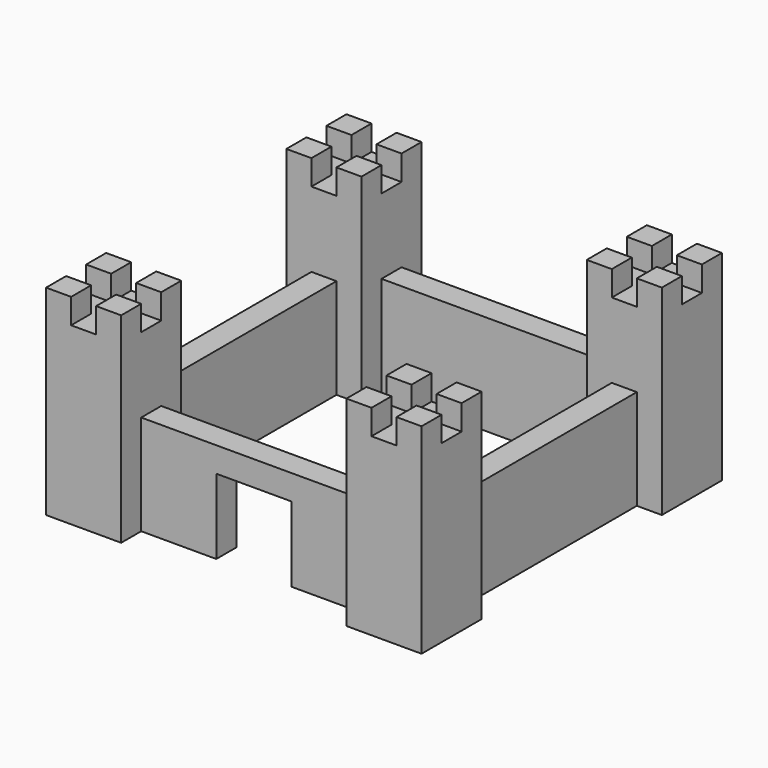
from build123d import *

# Parameters (mm, degrees)
BOX015_W     = 1
BOX015_H     = 1
BOX015_DEPTH = 1
BOX016_W     = 1
BOX016_H     = 1
BOX016_DEPTH = 1
BOX018_W     = 1
BOX018_H     = 1
BOX018_DEPTH = 1
BOX017_W     = 1
BOX017_H     = 1
BOX017_DEPTH = 1
BOX014_W     = 3
BOX014_H     = 3
BOX014_DEPTH = 7
BOX024_W     = 9
BOX024_H     = 1
BOX024_DEPTH = 4
BOX020_W     = 1
BOX020_H     = 1
BOX020_DEPTH = 1
BOX021_W     = 1
BOX021_H     = 1
BOX021_DEPTH = 1
BOX023_W     = 1
BOX023_H     = 1
BOX023_DEPTH = 1
BOX022_W     = 1
BOX022_H     = 1
BOX022_DEPTH = 1
BOX019_W     = 3
BOX019_H     = 3
BOX019_DEPTH = 7
BOX003_W     = 9
BOX003_H     = 1
BOX003_DEPTH = 4
BOX004_W     = 9
BOX004_H     = 1
BOX004_DEPTH = 4
BOX010_W     = 1
BOX010_H     = 1
BOX010_DEPTH = 1
BOX011_W     = 1
BOX011_H     = 1
BOX011_DEPTH = 1
BOX013_W     = 1
BOX013_H     = 1
BOX013_DEPTH = 1
BOX012_W     = 1
BOX012_H     = 1
BOX012_DEPTH = 1
BOX009_W     = 3
BOX009_H     = 3
BOX009_DEPTH = 7
BOX005_W     = 1
BOX005_H     = 1
BOX005_DEPTH = 1
BOX006_W     = 1
BOX006_H     = 1
BOX006_DEPTH = 1
BOX008_W     = 1
BOX008_H     = 1
BOX008_DEPTH = 1
BOX007_W     = 1
BOX007_H     = 1
BOX007_DEPTH = 1
BOX001_W     = 3
BOX001_H     = 3
BOX001_DEPTH = 7
BOX025_W     = 3
BOX025_H     = 1
BOX025_DEPTH = 3
BOX_W        = 9
BOX_H        = 1
BOX_DEPTH    = 4


with BuildPart() as cubo015:
    # Box015 → Box015 (new body)
    with BuildSketch(Plane(origin=(-1, 1, 7), x_dir=(1, 0, 0), z_dir=(0, 0, 1))):
        with Locations((0.5, 0.5)):
            Rectangle(BOX015_W, BOX015_H)
    extrude(amount=BOX015_DEPTH)


with BuildPart() as cubo016:
    # Box016 → Box016 (new body)
    with BuildSketch(Plane(origin=(-1, -1, 7), x_dir=(1, 0, 0), z_dir=(0, 0, 1))):
        with Locations((0.5, 0.5)):
            Rectangle(BOX016_W, BOX016_H)
    extrude(amount=BOX016_DEPTH)


with BuildPart() as cubo018:
    # Box018 → Box018 (new body)
    with BuildSketch(Plane(origin=(-3, 1, 7), x_dir=(1, 0, 0), z_dir=(0, 0, 1))):
        with Locations((0.5, 0.5)):
            Rectangle(BOX018_W, BOX018_H)
    extrude(amount=BOX018_DEPTH)


with BuildPart() as cubo017:
    # Box017 → Box017 (new body)
    with BuildSketch(Plane(origin=(-3, -1, 7), x_dir=(1, 0, 0), z_dir=(0, 0, 1))):
        with Locations((0.5, 0.5)):
            Rectangle(BOX017_W, BOX017_H)
    extrude(amount=BOX017_DEPTH)


with BuildPart() as fusion011:
    # Box014 → Box014 (new body)
    with BuildSketch(Plane(origin=(-3, -1, 0), x_dir=(1, 0, 0), z_dir=(0, 0, 1))):
        with Locations((1.5, 1.5)):
            Rectangle(BOX014_W, BOX014_H)
    extrude(amount=BOX014_DEPTH)

    # Fusion008: union Cubo017
    add(cubo017.part)

    # Fusion009: union Cubo018
    add(cubo018.part)

    # Fusion010: union Cubo016
    add(cubo016.part)

    # Fusion011: union Cubo015
    add(cubo015.part)


with BuildPart() as fusion011_1:
    # Fusion011 placement: moved
    add(fusion011.part.moved(Location((12, 12, 0))))


with BuildPart() as cubo024:
    # Box024 → Box024 (new body)
    with BuildSketch(Plane(origin=(0, 12, 0), x_dir=(1, 0, 0), z_dir=(0, 0, 1))):
        with Locations((4.5, 0.5)):
            Rectangle(BOX024_W, BOX024_H)
    extrude(amount=BOX024_DEPTH)


with BuildPart() as cubo020:
    # Box020 → Box020 (new body)
    with BuildSketch(Plane(origin=(-1, 1, 7), x_dir=(1, 0, 0), z_dir=(0, 0, 1))):
        with Locations((0.5, 0.5)):
            Rectangle(BOX020_W, BOX020_H)
    extrude(amount=BOX020_DEPTH)


with BuildPart() as cubo021:
    # Box021 → Box021 (new body)
    with BuildSketch(Plane(origin=(-1, -1, 7), x_dir=(1, 0, 0), z_dir=(0, 0, 1))):
        with Locations((0.5, 0.5)):
            Rectangle(BOX021_W, BOX021_H)
    extrude(amount=BOX021_DEPTH)


with BuildPart() as cubo023:
    # Box023 → Box023 (new body)
    with BuildSketch(Plane(origin=(-3, 1, 7), x_dir=(1, 0, 0), z_dir=(0, 0, 1))):
        with Locations((0.5, 0.5)):
            Rectangle(BOX023_W, BOX023_H)
    extrude(amount=BOX023_DEPTH)


with BuildPart() as cubo022:
    # Box022 → Box022 (new body)
    with BuildSketch(Plane(origin=(-3, -1, 7), x_dir=(1, 0, 0), z_dir=(0, 0, 1))):
        with Locations((0.5, 0.5)):
            Rectangle(BOX022_W, BOX022_H)
    extrude(amount=BOX022_DEPTH)


with BuildPart() as fusion015:
    # Box019 → Box019 (new body)
    with BuildSketch(Plane(origin=(-3, -1, 0), x_dir=(1, 0, 0), z_dir=(0, 0, 1))):
        with Locations((1.5, 1.5)):
            Rectangle(BOX019_W, BOX019_H)
    extrude(amount=BOX019_DEPTH)

    # Fusion012: union Cubo022
    add(cubo022.part)

    # Fusion013: union Cubo023
    add(cubo023.part)

    # Fusion014: union Cubo021
    add(cubo021.part)

    # Fusion015: union Cubo020
    add(cubo020.part)


with BuildPart() as fusion015_1:
    # Fusion015 placement: moved
    add(fusion015.part.moved(Location((0, 12, 0))))


with BuildPart() as cubo003:
    # Box003 → Box003 (new body)
    with BuildSketch(Plane(origin=(-1, 2, 0), x_dir=(0, 1, 0), z_dir=(0, 0, 1))):
        with Locations((4.5, 0.5)):
            Rectangle(BOX003_W, BOX003_H)
    extrude(amount=BOX003_DEPTH)


with BuildPart() as cubo004:
    # Box004 → Box004 (new body)
    with BuildSketch(Plane(origin=(11, 2, 0), x_dir=(0, 1, 0), z_dir=(0, 0, 1))):
        with Locations((4.5, 0.5)):
            Rectangle(BOX004_W, BOX004_H)
    extrude(amount=BOX004_DEPTH)


with BuildPart() as cubo010:
    # Box010 → Box010 (new body)
    with BuildSketch(Plane(origin=(-1, 1, 7), x_dir=(1, 0, 0), z_dir=(0, 0, 1))):
        with Locations((0.5, 0.5)):
            Rectangle(BOX010_W, BOX010_H)
    extrude(amount=BOX010_DEPTH)


with BuildPart() as cubo011:
    # Box011 → Box011 (new body)
    with BuildSketch(Plane(origin=(-1, -1, 7), x_dir=(1, 0, 0), z_dir=(0, 0, 1))):
        with Locations((0.5, 0.5)):
            Rectangle(BOX011_W, BOX011_H)
    extrude(amount=BOX011_DEPTH)


with BuildPart() as cubo013:
    # Box013 → Box013 (new body)
    with BuildSketch(Plane(origin=(-3, 1, 7), x_dir=(1, 0, 0), z_dir=(0, 0, 1))):
        with Locations((0.5, 0.5)):
            Rectangle(BOX013_W, BOX013_H)
    extrude(amount=BOX013_DEPTH)


with BuildPart() as cubo012:
    # Box012 → Box012 (new body)
    with BuildSketch(Plane(origin=(-3, -1, 7), x_dir=(1, 0, 0), z_dir=(0, 0, 1))):
        with Locations((0.5, 0.5)):
            Rectangle(BOX012_W, BOX012_H)
    extrude(amount=BOX012_DEPTH)


with BuildPart() as fusion007:
    # Box009 → Box009 (new body)
    with BuildSketch(Plane(origin=(-3, -1, 0), x_dir=(1, 0, 0), z_dir=(0, 0, 1))):
        with Locations((1.5, 1.5)):
            Rectangle(BOX009_W, BOX009_H)
    extrude(amount=BOX009_DEPTH)

    # Fusion004: union Cubo012
    add(cubo012.part)

    # Fusion005: union Cubo013
    add(cubo013.part)

    # Fusion006: union Cubo011
    add(cubo011.part)

    # Fusion007: union Cubo010
    add(cubo010.part)


with BuildPart() as fusion007_1:
    # Fusion007 placement: moved
    add(fusion007.part.moved(Location((12, 0, 0))))


with BuildPart() as cubo005:
    # Box005 → Box005 (new body)
    with BuildSketch(Plane(origin=(-1, 1, 7), x_dir=(1, 0, 0), z_dir=(0, 0, 1))):
        with Locations((0.5, 0.5)):
            Rectangle(BOX005_W, BOX005_H)
    extrude(amount=BOX005_DEPTH)


with BuildPart() as cubo006:
    # Box006 → Box006 (new body)
    with BuildSketch(Plane(origin=(-1, -1, 7), x_dir=(1, 0, 0), z_dir=(0, 0, 1))):
        with Locations((0.5, 0.5)):
            Rectangle(BOX006_W, BOX006_H)
    extrude(amount=BOX006_DEPTH)


with BuildPart() as cubo008:
    # Box008 → Box008 (new body)
    with BuildSketch(Plane(origin=(-3, 1, 7), x_dir=(1, 0, 0), z_dir=(0, 0, 1))):
        with Locations((0.5, 0.5)):
            Rectangle(BOX008_W, BOX008_H)
    extrude(amount=BOX008_DEPTH)


with BuildPart() as cubo007:
    # Box007 → Box007 (new body)
    with BuildSketch(Plane(origin=(-3, -1, 7), x_dir=(1, 0, 0), z_dir=(0, 0, 1))):
        with Locations((0.5, 0.5)):
            Rectangle(BOX007_W, BOX007_H)
    extrude(amount=BOX007_DEPTH)


with BuildPart() as fusion003:
    # Box001 → Box001 (new body)
    with BuildSketch(Plane(origin=(-3, -1, 0), x_dir=(1, 0, 0), z_dir=(0, 0, 1))):
        with Locations((1.5, 1.5)):
            Rectangle(BOX001_W, BOX001_H)
    extrude(amount=BOX001_DEPTH)

    # Fusion: union Cubo007
    add(cubo007.part)

    # Fusion001: union Cubo008
    add(cubo008.part)

    # Fusion002: union Cubo006
    add(cubo006.part)

    # Fusion003: union Cubo005
    add(cubo005.part)


with BuildPart() as cubo025:
    # Box025 → Box025 (new body)
    with BuildSketch(Plane(origin=(3, 0, 0), x_dir=(1, 0, 0), z_dir=(0, 0, 1))):
        with Locations((1.5, 0.5)):
            Rectangle(BOX025_W, BOX025_H)
    extrude(amount=BOX025_DEPTH)


with BuildPart() as fusion022:
    # Box → Box (new body)
    with BuildSketch(Plane.XY):
        with Locations((4.5, 0.5)):
            Rectangle(BOX_W, BOX_H)
    extrude(amount=BOX_DEPTH)

    # Cut: cut Cubo025
    add(cubo025.part, mode=Mode.SUBTRACT)

    # Fusion016: union Fusion003
    add(fusion003.part)

    # Fusion017: union Fusion007
    add(fusion007_1.part)

    # Fusion018: union Cubo004
    add(cubo004.part)

    # Fusion019: union Cubo003
    add(cubo003.part)

    # Fusion020: union Fusion015
    add(fusion015_1.part)

    # Fusion021: union Cubo024
    add(cubo024.part)

    # Fusion022: union Fusion011
    add(fusion011_1.part)


solid = fusion022.part
